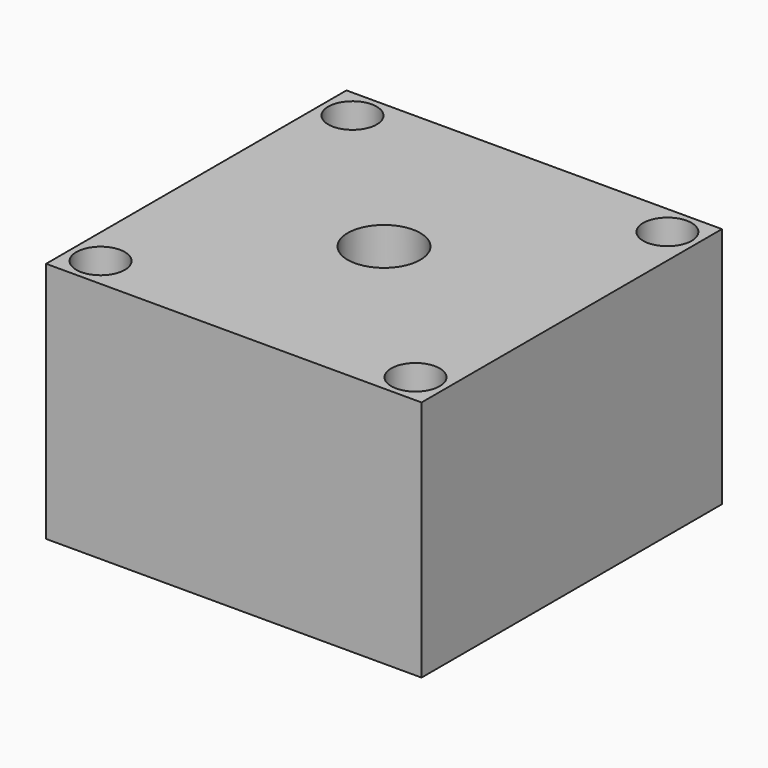
from build123d import *

# Parameters (mm, degrees)
F0_W     = 31
F0_H     = 31
F0_R     = 2
F1_DEPTH = 20


with BuildPart() as f1:
    # F0 (on Top) → F1 (new body)
    with BuildSketch(Plane.XY):
        Rectangle(F0_W, F0_H)
        with Locations((-13, -13)):
            Circle(F0_R, mode=Mode.SUBTRACT)
        with Locations((13, -13)):
            Circle(F0_R, mode=Mode.SUBTRACT)
        with Locations((-13, 13)):
            Circle(F0_R, mode=Mode.SUBTRACT)
        with Locations((13, 13)):
            Circle(F0_R, mode=Mode.SUBTRACT)
    extrude(amount=F1_DEPTH)

    # F2 (on Front) → F3 (revolve, cut)
    with BuildSketch(Plane.XZ):
        Polygon((0, 20), (0, 0), (11.5, 0), (11.5, 5), (6, 5), (6, 9.2), (3, 9.2), (3, 20), align=None)
    revolve(axis=Axis((0, 0, 12.416523), (0, 0, 1)), mode=Mode.SUBTRACT)


solid = f1.part
